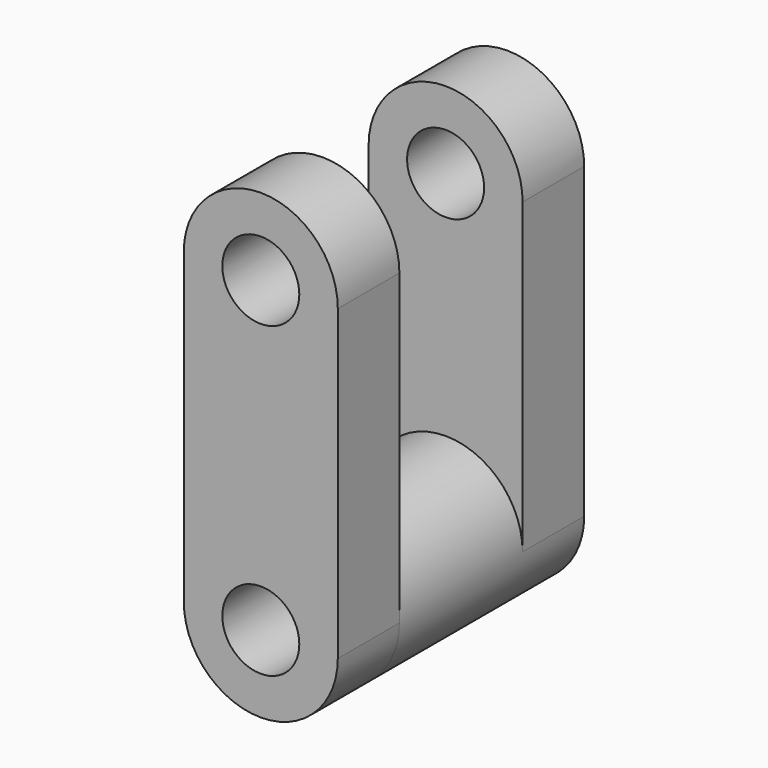
from build123d import *

# Parameters (mm, degrees)
F0_R     = 12.7
F1_DEPTH = 25.4
F2_DEPTH = 50.8
F3_R     = 12.7
F4_DEPTH = 25.4


with BuildPart() as f1:
    # F0 (on Front) → F1 (new body)
    with BuildSketch(Plane.XZ):
        with BuildLine():
            ThreePointArc((-25.4, 101.6), (0, 76.2), (25.4, 101.6))
            ThreePointArc((25.4, 101.6), (0, 127), (-25.4, 101.6))
        make_face()
        with Locations((0, 101.6)):
            Circle(F0_R, mode=Mode.SUBTRACT)
        with BuildLine():
            ThreePointArc((-25.4, 0), (0, 25.4), (25.4, 0))
            Line((25.4, 0), (25.4, 101.6))
            ThreePointArc((25.4, 101.6), (0, 76.2), (-25.4, 101.6))
            Line((-25.4, 101.6), (-25.4, 0))
        make_face()
        with BuildLine():
            ThreePointArc((-25.4, 0), (0, -25.4), (25.4, 0))
            ThreePointArc((25.4, 0), (0, 25.4), (-25.4, 0))
        make_face()
        Circle(F0_R, mode=Mode.SUBTRACT)
    extrude(amount=-F1_DEPTH)

    # F0 (on Front) → F2 (join)
    with BuildSketch(Plane.XZ):
        with BuildLine():
            ThreePointArc((-25.4, 0), (0, -25.4), (25.4, 0))
            ThreePointArc((25.4, 0), (0, 25.4), (-25.4, 0))
        make_face()
        Circle(F0_R, mode=Mode.SUBTRACT)
    extrude(amount=F2_DEPTH)

    # F3 (on face) → F4 (join)
    with BuildSketch(Plane.XZ.offset(50.8)):
        with BuildLine():
            ThreePointArc((25.4, 101.6), (0, 127), (-25.4, 101.6))
            ThreePointArc((-25.4, 101.6), (0, 76.2), (25.4, 101.6))
        make_face()
        with Locations((0, 101.6)):
            Circle(F3_R, mode=Mode.SUBTRACT)
        with BuildLine():
            ThreePointArc((25.4, 101.6), (0, 76.2), (-25.4, 101.6))
            Line((-25.4, 101.6), (-25.4, 0))
            ThreePointArc((-25.4, 0), (0, 25.4), (25.4, 0))
            Line((25.4, 0), (25.4, 101.6))
        make_face()
        with BuildLine():
            ThreePointArc((25.4, 0), (0, 25.4), (-25.4, 0))
            ThreePointArc((-25.4, 0), (0, -25.4), (25.4, 0))
        make_face()
        Circle(F3_R, mode=Mode.SUBTRACT)
    extrude(amount=F4_DEPTH)


solid = f1.part
